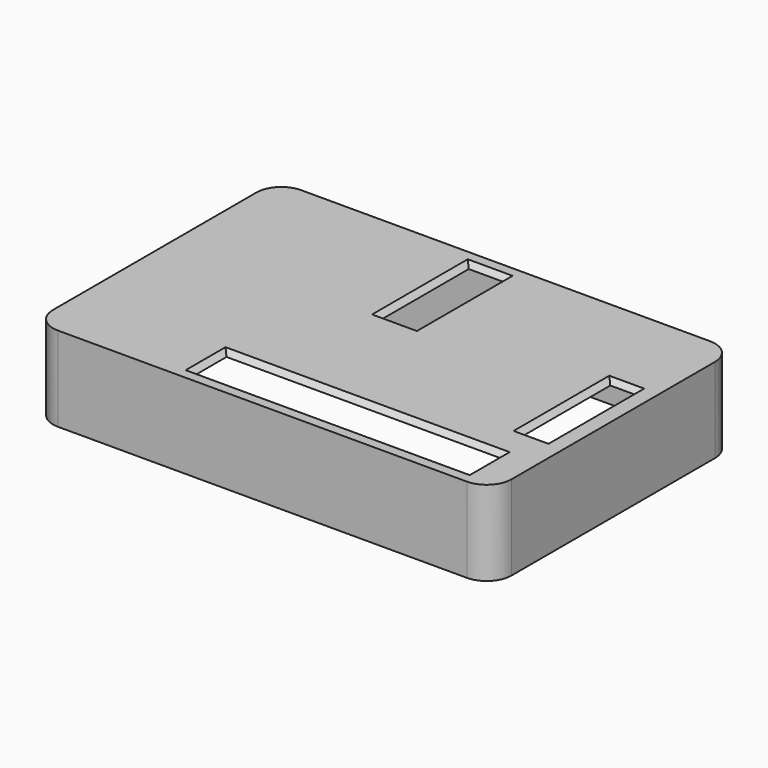
from build123d import *

# Parameters (mm, degrees)
PAD_DEPTH       = 17
SKETCH001_W     = 55
SKETCH001_H     = 8
POCKET_DEPTH    = 17.001
CHAMFER_SIZE    = 1
SKETCH002_W     = 7
SKETCH002_H     = 22
POCKET001_DEPTH = 17.001
CHAMFER001_SIZE = 1
SKETCH003_W     = 5
SKETCH003_H     = 22
POCKET002_DEPTH = 17.001
CHAMFER002_SIZE = 1
POCKET003_DEPTH = 7
POCKET004_DEPTH = 16
SKETCH005_W     = 17
SKETCH005_H     = 13
SKETCH005_W_2   = 16
SKETCH005_H_2   = 14
POCKET005_DEPTH = 5


with BuildPart() as part:
    # Sketch → Pad (new body)
    with BuildSketch(Plane.XY):
        with BuildLine():
            Line((-41, 30.5), (41, 30.5))
            ThreePointArc((46, 25.5), (44.535534, 29.035534), (41, 30.5))
            Line((46, 25.5), (46, -25.5))
            ThreePointArc((41, -30.5), (44.535534, -29.035534), (46, -25.5))
            Line((41, -30.5), (-41, -30.5))
            ThreePointArc((-46, -25.5), (-44.535534, -29.035534), (-41, -30.5))
            Line((-46, -25.5), (-46, 25.5))
            ThreePointArc((-41, 30.5), (-44.535534, 29.035534), (-46, 25.5))
        make_face()
    extrude(amount=PAD_DEPTH)

    # Sketch001 (on Face10 of Pad) → Pocket (cut, through all)
    with BuildSketch(Plane.XY.offset(17)):
        with Locations((11.5, -23.5)):
            Rectangle(SKETCH001_W, SKETCH001_H)
    extrude(amount=-POCKET_DEPTH, mode=Mode.SUBTRACT)

    # Chamfer
    chamfer_edges = [part.edges().sort_by_distance(p)[0] for p in [
        (11.5, -27.5, 17),
        (-16, -23.5, 17),
        (11.5, -19.5, 17),
        (39, -23.5, 17),
    ]]
    chamfer(chamfer_edges, length=CHAMFER_SIZE)

    # Sketch002 (on Face1 of Chamfer) → Pocket001 (cut, through all)
    with BuildSketch(Plane.XY.offset(17)):
        with Locations((-1.5, 16.5)):
            Rectangle(SKETCH002_W, SKETCH002_H)
    extrude(amount=-POCKET001_DEPTH, mode=Mode.SUBTRACT)

    # Chamfer001
    chamfer001_edges = [part.edges().sort_by_distance(p)[0] for p in [
        (-5, 16.5, 17),
        (-1.5, 27.5, 17),
        (2, 16.5, 17),
        (-1.5, 5.5, 17),
    ]]
    chamfer(chamfer001_edges, length=CHAMFER001_SIZE)

    # Sketch003 (on Face1 of Chamfer001) → Pocket002 (cut, through all)
    with BuildSketch(Plane.XY.offset(17)):
        with Locations((39.5, -0.5)):
            Rectangle(SKETCH003_W, SKETCH003_H)
    extrude(amount=-POCKET002_DEPTH, mode=Mode.SUBTRACT)

    # Chamfer002
    chamfer002_edges = [part.edges().sort_by_distance(p)[0] for p in [
        (39.5, -11.5, 17),
        (42, -0.5, 17),
        (37, -0.5, 17),
        (39.5, 10.5, 17),
    ]]
    chamfer(chamfer002_edges, length=CHAMFER002_SIZE)

    # Sketch004 (on Face26 of Chamfer002) → Pocket003 (cut)
    with BuildSketch(Plane(origin=(0, 0, 0), x_dir=(1, 0, 0), z_dir=(0, 0, -1))):
        with BuildLine():
            Line((-40, 29.5), (40, 29.5))
            ThreePointArc((45, 24.5), (43.535534, 28.035534), (40, 29.5))
            Line((45, 24.5), (45, -24.5))
            ThreePointArc((40, -29.5), (43.535534, -28.035534), (45, -24.5))
            Line((40, -29.5), (-40, -29.5))
            ThreePointArc((-45, -24.5), (-43.535534, -28.035534), (-40, -29.5))
            Line((-45, -24.5), (-45, 24.5))
            ThreePointArc((-40, 29.5), (-43.535534, 28.035534), (-45, 24.5))
        make_face()
    extrude(amount=-POCKET003_DEPTH, mode=Mode.SUBTRACT)

    # Sketch004 (on Face26 of Chamfer002) → Pocket004 (cut)
    with BuildSketch(Plane(origin=(0, 0, 0), x_dir=(1, 0, 0), z_dir=(0, 0, -1))):
        with BuildLine():
            Line((-40, 29.5), (40, 29.5))
            ThreePointArc((45, 24.5), (43.535534, 28.035534), (40, 29.5))
            Line((45, 24.5), (45, -24.5))
            ThreePointArc((40, -29.5), (43.535534, -28.035534), (45, -24.5))
            Line((40, -29.5), (-40, -29.5))
            ThreePointArc((-45, -24.5), (-43.535534, -28.035534), (-40, -29.5))
            Line((-45, -24.5), (-45, 24.5))
            ThreePointArc((-40, 29.5), (-43.535534, 28.035534), (-45, 24.5))
        make_face()
    extrude(amount=-POCKET004_DEPTH, mode=Mode.SUBTRACT)

    # Sketch005 (on Face6 of Pocket004) → Pocket005 (cut)
    with BuildSketch(Plane(origin=(-46, 0, 0), x_dir=(0, -1, 0), z_dir=(-1, 0, 0))):
        with Locations((-18, 6.5)):
            Rectangle(SKETCH005_W, SKETCH005_H)
        with Locations((0.5, 7)):
            Rectangle(SKETCH005_W_2, SKETCH005_H_2)
        with Locations((18.5, 7)):
            Rectangle(SKETCH005_W_2, SKETCH005_H_2)
    extrude(amount=-POCKET005_DEPTH, mode=Mode.SUBTRACT)


solid = part.part
